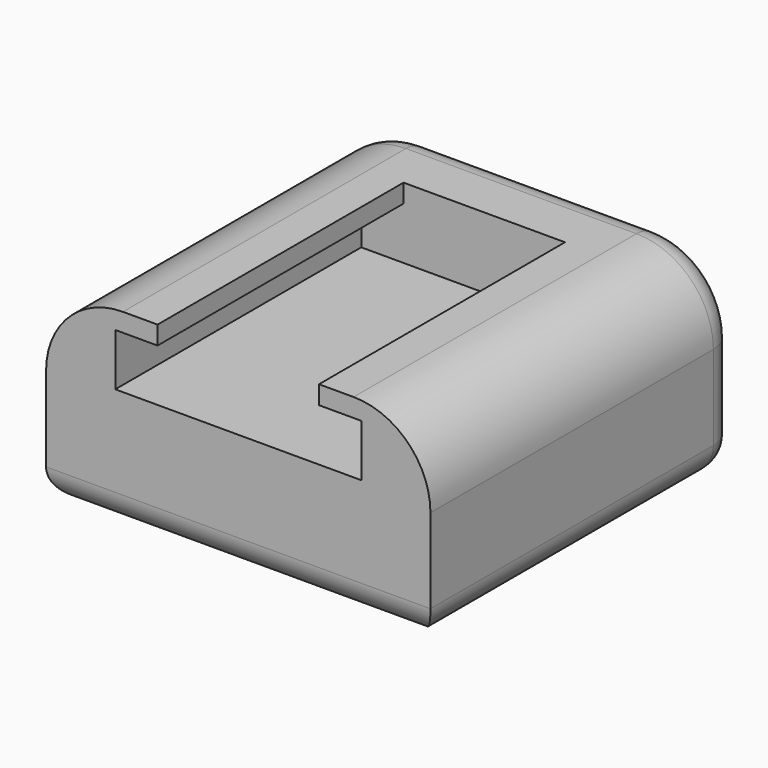
from build123d import *

# Parameters (mm, degrees)
F0_W     = 31.75
F0_H     = 31.75
F1_DEPTH = 15.875
F3_DEPTH = 25.4
F5_D     = 5.08
F5_DEPTH = 3.81
F5_TIP   = 1.5261859723
F7_D     = 6.096
F7_DEPTH = 5.08
F7_TIP   = 1.8314231668
F8_R     = 6.35
F9_R     = 2.54


with BuildPart() as f1:
    # F0 (on Top) → F1 (new body)
    with BuildSketch(Plane.XY):
        with Locations((-26.8367353499, -9.2885306659)):
            Rectangle(F0_W, F0_H)
    extrude(amount=F1_DEPTH)

    # F2 (on face) → F3 (cut)
    with BuildSketch(Plane.XZ.offset(25.1635306659)):
        Polygon((-20.1692353499, 15.875), (-33.5042353499, 15.875), (-33.5042353499, 14.351), (-36.9967353499, 14.351), (-36.9967353499, 10.033), (-16.6767353499, 10.033), (-16.6767353499, 14.351), (-20.1692353499, 14.351), align=None)
    extrude(amount=-F3_DEPTH, mode=Mode.SUBTRACT)

    # F5
    with Locations(Plane(origin=(0, 0, 0), x_dir=(1, 0, 0), z_dir=(0, 0, -1))):
        with Locations((-26.8367353499, 18.0515306659)):
            Hole(F5_D / 2, depth=F5_DEPTH)
            with Locations((0, 0, -(F5_DEPTH + F5_TIP / 2))):  # 118° drill point
                Cone(0, F5_D / 2, F5_TIP, mode=Mode.SUBTRACT)

    # F7
    with Locations(Plane(origin=(0, 0, 0), x_dir=(1, 0, 0), z_dir=(0, 0, -1))):
        with Locations((-26.8367353499, 4.8435306659)):
            Hole(F7_D / 2, depth=F7_DEPTH)
            with Locations((0, 0, -(F7_DEPTH + F7_TIP / 2))):  # 118° drill point
                Cone(0, F7_D / 2, F7_TIP, mode=Mode.SUBTRACT)

    # F8
    f8_edges = [f1.edges().sort_by_distance(p)[0] for p in [
        (-42.711735, -9.288531, 15.875),
        (-10.961735, -9.288531, 15.875),
    ]]
    fillet(f8_edges, radius=F8_R)

    # F9
    f9_edges = [f1.edges().sort_by_distance(p)[0] for p in [
        (-42.711735, -9.288531, 0),
        (-10.961735, -9.288531, 0),
        (-26.836735, -25.163531, 0),
        (-26.836735, 6.586469, 0),
        (-26.836735, 6.586469, 15.875),
    ]]
    fillet(f9_edges, radius=F9_R)


solid = f1.part
